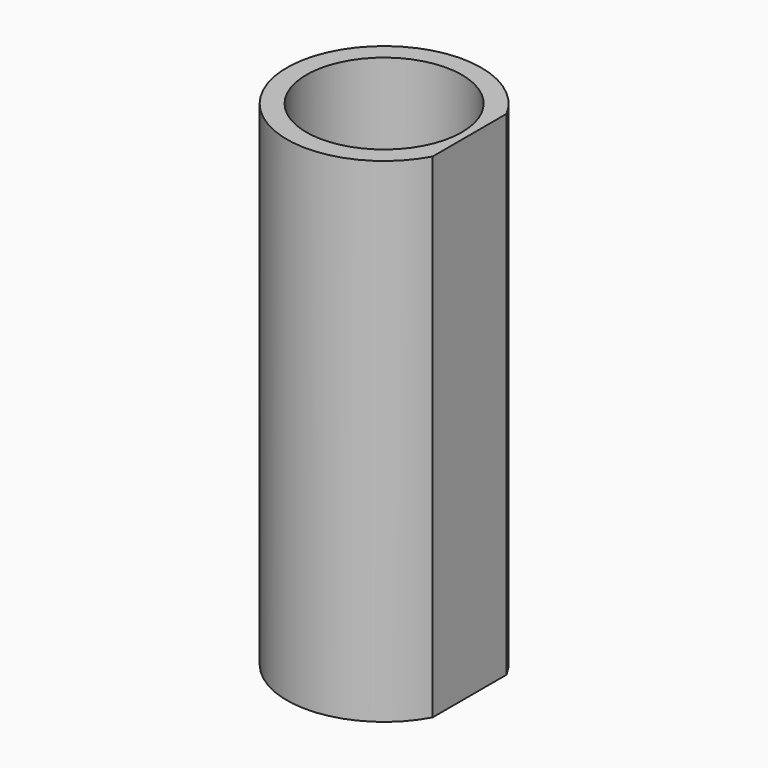
from build123d import *

# Parameters (mm, degrees)
F0_R     = 5
F1_DEPTH = 25.4
F2_T     = -1
F4_DEPTH = 25.4


with BuildPart() as f1:
    # F0 (on Top) → F1 (new body)
    with BuildSketch(Plane.XY):
        Circle(F0_R)
    extrude(amount=F1_DEPTH)

    # F2
    f2_openings = [f1.faces().sort_by_distance(p)[0] for p in [
        (0, 0, 25.4),
        (0, 0, 0),
    ]]
    offset(amount=F2_T, openings=f2_openings)

    # F3 (on Top) → F4 (cut)
    with BuildSketch(Plane.XY):
        with BuildLine():
            ThreePointArc((4.399024, -2.376676), (4.847428, -1.22574), (5, 0))
            ThreePointArc((5, 0), (4.847428, 1.22574), (4.399024, 2.376676))
            Line((4.399024, 2.376676), (4.399024, -2.376676))
        make_face()
    extrude(amount=F4_DEPTH, mode=Mode.SUBTRACT)


solid = f1.part
